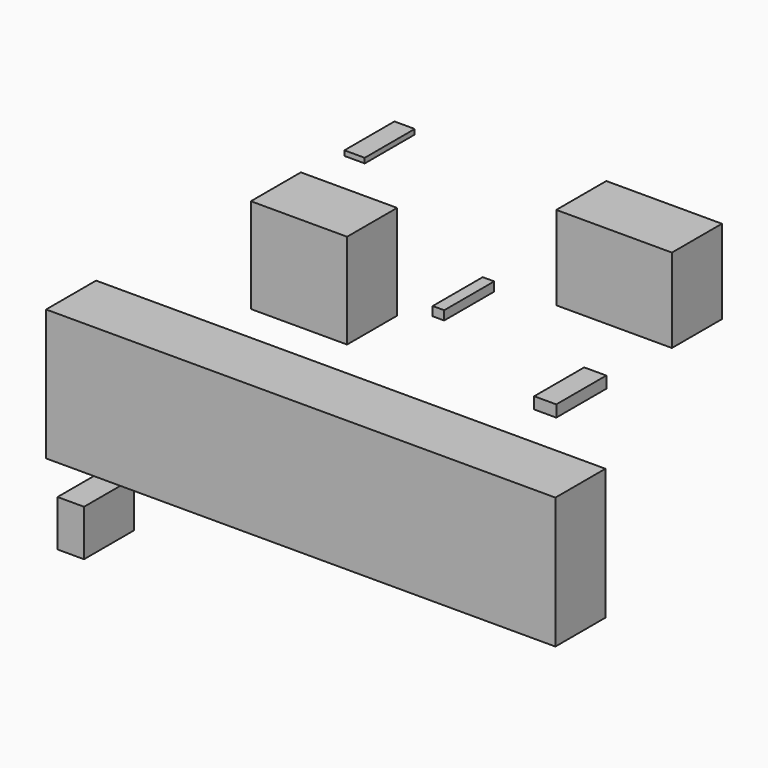
from build123d import *

# Parameters (mm, degrees)
F0_W     = 39.09573
F0_H     = 38.570054
F0_W_2   = 4.662796
F0_H_2   = 3.675435
F0_W_3   = 206.956312
F0_H_3   = 53.28697
F0_W_4   = 10.760307
F0_H_4   = 18.773034
F0_W_5   = 8.966912
F0_H_5   = 4.740581
F0_W_6   = 46.986609
F0_H_6   = 34.140102
F0_W_7   = 8.249555
F0_H_7   = 2.022773
F1_DEPTH = 25.4


with BuildPart() as f1:
    # F0 (on Front) → F1 (new body)
    with BuildSketch(Plane.XZ):
        with Locations((-63.306391, 57.943758)):
            Rectangle(F0_W, F0_H)
        with Locations((-6.635515, 61.928896)):
            Rectangle(F0_W_2, F0_H_2)
        with Locations((-62.589042, -15.198491)):
            Rectangle(F0_W_3, F0_H_3)
        with Locations((-156.024248, -63.512161)):
            Rectangle(F0_W_4, F0_H_4)
        with Locations((36.764337, 42.535152)):
            Rectangle(F0_W_5, F0_H_5)
        with Locations((64.741097, 97.418625)):
            Rectangle(F0_W_6, F0_H_6)
        with Locations((-40.709776, 106.790661)):
            Rectangle(F0_W_7, F0_H_7)
    extrude(amount=F1_DEPTH)


solid = f1.part
